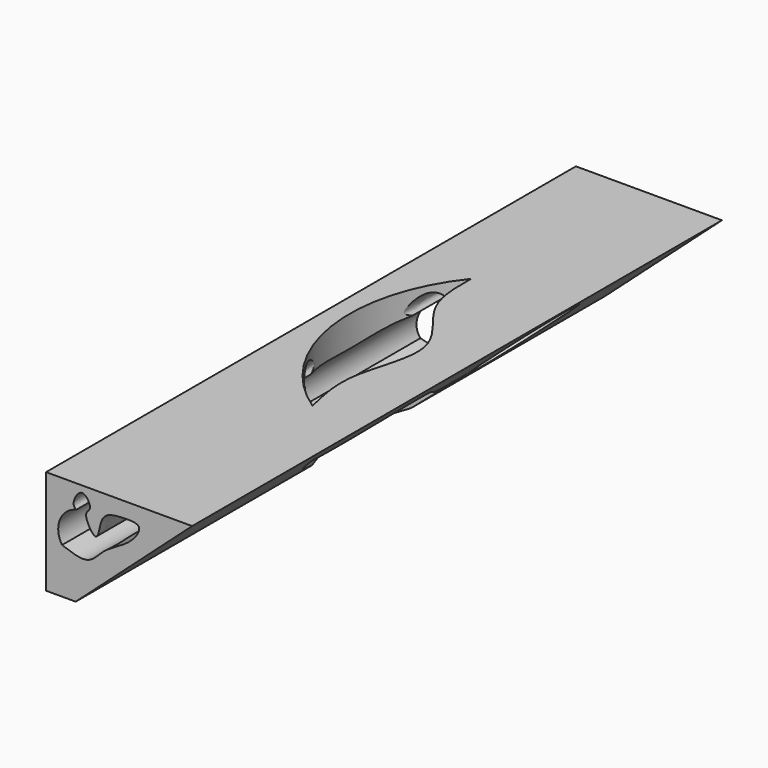
from build123d import *

# Parameters (mm, degrees)
F1_DEPTH = 127
F3_DEPTH = 57.12076
F5_DEPTH = 313.48539
F6_R     = 15.6200906836
F7_DEPTH = 77.47741


with BuildPart() as f1:
    # F0 (on Front) → F1 (new body, symmetric)
    with BuildSketch(Plane.XZ):
        Polygon((-56.0167953372, 40.0539673865), (-56.0167953372, 0), (-44.6567460895, 0), (0, 40.0539673865), align=None)
    extrude(amount=F1_DEPTH, both=True)

    # F2 (on face) → F3 (cut)
    with BuildSketch(Plane.XY.offset(40.0539673865)):
        with BuildLine():
            add(Edge.make_bspline(
                [(-34.9288880825, 50.43470487), (-35.0066649284, 43.1476143212), (-35.1694429739, 27.8965670069), (-11.6751530721, 8.621731699), (-26.0196286223, -20.8490214512), (-22.3176726222, -36.2774947058), (-20.5656066537, -43.5795001686)],
                knots=[0, 0, 0, 0, 0.2337432454, 0.4891978865, 0.7582469917, 1, 1, 1, 1], degree=3))
            ThreePointArc((-34.9288880825, 50.43470487), (-48.4419278655, 0.2659150297), (-20.5656066537, -43.5795001686))
        make_face()
    extrude(amount=-F3_DEPTH, mode=Mode.SUBTRACT)

    # F4 (on face) → F5 (cut)
    with BuildSketch(Plane.XZ.offset(127)):
        with BuildLine():
            add(Edge.make_bspline(
                [(-49.8959198594, 17.4305532128), (-46.2906958239, 16.1178375121), (-39.4273474387, 13.6187902696), (-33.9989000687, 21.7427586468), (-24.0830241102, 25.5400339855), (-18.0293331526, 34.2453824637), (-26.577819543, 34.3542730506), (-32.9725637142, 33.7216166464), (-35.3641220587, 30.1100557501), (-36.2500813755, 20.9724406693), (-42.4469864305, 31.5616360938), (-37.7592050943, 32.7201562807), (-42.2744854698, 40.3139501698), (-46.3429101214, 32.8426395293), (-44.9861584643, 31.5869217994), (-44.4608032703, 31.1006885022)],
                knots=[0, 0, 0, 0, 0.0991264592, 0.1887093331, 0.2943949083, 0.3776658537, 0.4534916414, 0.5333829475, 0.5988746382, 0.6710185656, 0.7551195981, 0.8094987234, 0.8799422452, 0.9535117833, 1, 1, 1, 1], degree=3))
            ThreePointArc((-44.4608032703, 31.1006885022), (-50.7341056786, 25.6793511103), (-49.8959198594, 17.4305532128))
        make_face()
    extrude(amount=-F5_DEPTH, mode=Mode.SUBTRACT)

    # F6 (on face) → F7 (cut)
    with BuildSketch(Plane(origin=(-56.0167953372, 0, 0), x_dir=(0, -1, 0), z_dir=(-1, 0, 0))):
        with Locations((-60.2544471622, 19.8790282011)):
            Circle(F6_R)
    extrude(amount=-F7_DEPTH, mode=Mode.SUBTRACT)


solid = f1.part
